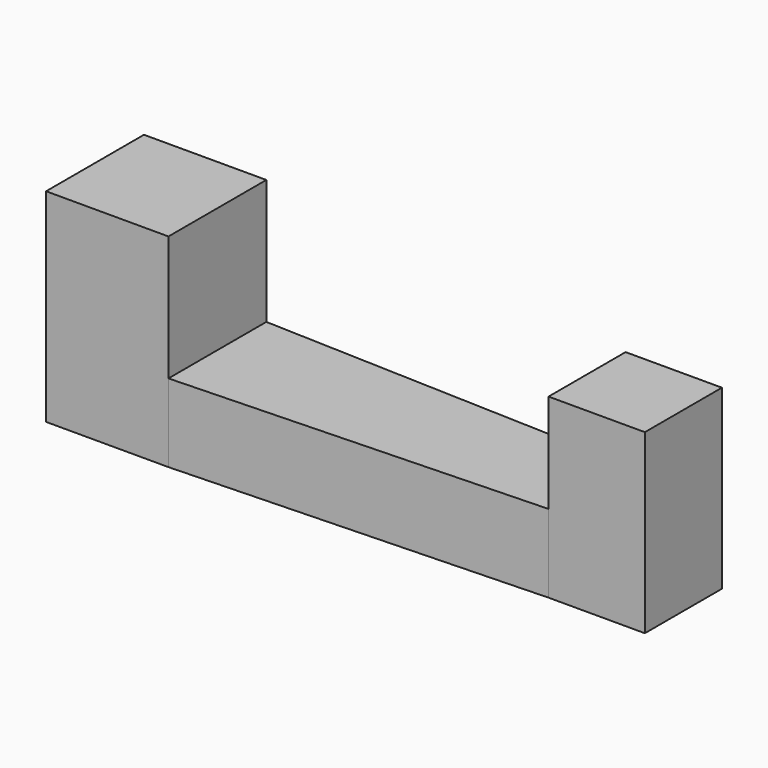
from build123d import *

# Parameters (mm, degrees)
F1_DEPTH = 7.8
F2_DEPTH = 6.8
F3_DEPTH = 3


with BuildPart() as f1:
    # F0 (on Top) → F1 (new body)
    with BuildSketch(Plane.XY):
        Polygon((-14.2, 0), (-14.2, 2.35), (-18.9, 2.35), (-18.9, -2.35), (-14.2, -2.35), align=None)
    extrude(amount=F1_DEPTH)


with BuildPart() as f2:
    # F0 (on Top) → F2 (new body)
    with BuildSketch(Plane.XY):
        Polygon((3.7, 1.85), (0, 1.85), (0, 0), (0, -1.85), (3.7, -1.85), align=None)
    extrude(amount=F2_DEPTH)


with BuildPart() as f3:
    # F0 (on Top) → F3 (new body)
    with BuildSketch(Plane.XY):
        Polygon((0, 0), (0, 1.85), (-14.2, 2.35), (-14.2, 0), align=None)
        Polygon((0, -1.85), (0, 0), (-14.2, 0), (-14.2, -2.35), align=None)
    extrude(amount=F3_DEPTH)


solid = Compound([f1.part, f2.part, f3.part])
